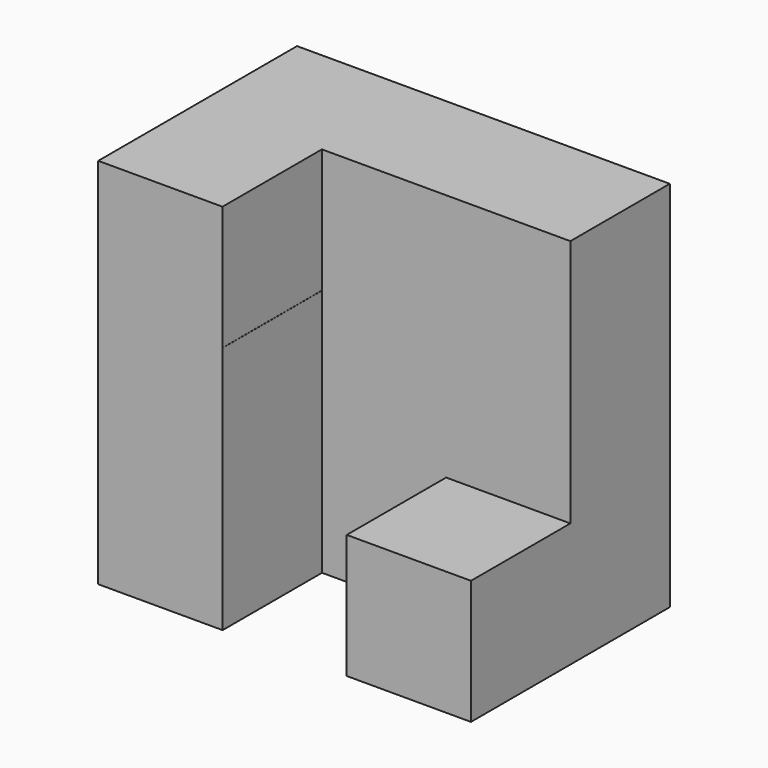
from build123d import *

# Parameters (mm, degrees)
F0_W     = 57.15
F0_H     = 19.05
F1_DEPTH = 19.05
F2_W     = 19.05
F2_H     = 19.05
F3_DEPTH = 19.05
F4_W     = 19.05
F4_H     = 19.05
F5_DEPTH = 19.05
F7_DEPTH = 38.1


with BuildPart() as f1:
    # F0 (on Front) → F1 (new body)
    with BuildSketch(Plane.XZ):
        with Locations((28.575, 9.525)):
            Rectangle(F0_W, F0_H)
    extrude(amount=F1_DEPTH)

    # F4 (on face) → F5 (join)
    with BuildSketch(Plane.XZ.offset(19.05)):
        with Locations((9.525, 9.525)):
            Rectangle(F4_W, F4_H)
    extrude(amount=F5_DEPTH)



with BuildPart() as f3:
    # F2 (on face) → F3 (new body)
    with BuildSketch(Plane.XZ.offset(19.05)):
        with Locations((47.625, 9.525)):
            Rectangle(F2_W, F2_H)
    extrude(amount=F3_DEPTH)


with BuildPart() as f1_1:
    add(f1.part)

    add(f3.part)  # F7 merges F3
    # F6 (on Top) + F5_face (on face) → F7 (join)
    with BuildSketch(Plane.XY):
        Polygon((0, -19.164518), (0, -38.021836), (19.069996, -38.098183), (19.069996, -19.164518), align=None)
    with BuildSketch(Plane(origin=(23.8125, -14.2875, 19.05), x_dir=(1, 0, 0), z_dir=(0, 0, 1))):
        Polygon((33.3375, -4.7625), (33.3375, 14.2875), (-23.8125, 14.2875), (-23.8125, -23.8125), (-4.7625, -23.8125), (-4.7625, -4.7625), align=None)
    extrude(amount=F7_DEPTH)


solid = f1_1.part
